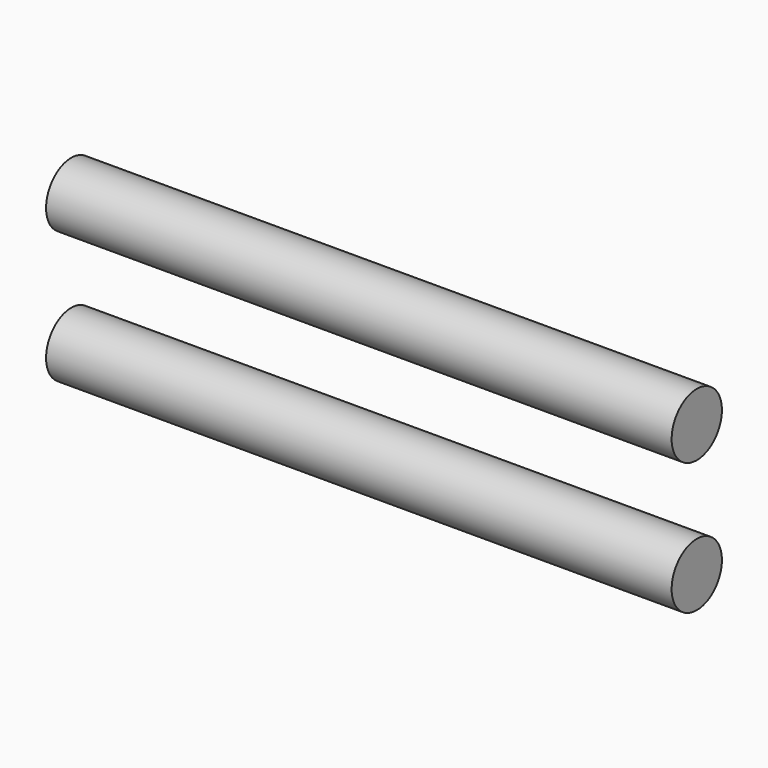
from build123d import *

# Parameters (mm, degrees)
CYLINDER028_R     = 5
CYLINDER028_DEPTH = 99.5
CYLINDER027_R     = 5
CYLINDER027_DEPTH = 99.5


with BuildPart() as cylinder028:
    # Cylinder028 → Cylinder028 (new body)
    with BuildSketch(Plane(origin=(0, 0, 142.5), x_dir=(0, 0, -1), z_dir=(1, 0, 0))):
        Circle(CYLINDER028_R)
    extrude(amount=CYLINDER028_DEPTH)


with BuildPart() as nitrogenpipes10mm002:
    # Cylinder027 → Cylinder027 (new body)
    with BuildSketch(Plane(origin=(0, 0, 121.5), x_dir=(0, 0, -1), z_dir=(1, 0, 0))):
        Circle(CYLINDER027_R)
    extrude(amount=CYLINDER027_DEPTH)

    # Fusion011: union Cylinder028
    add(cylinder028.part)


solid = nitrogenpipes10mm002.part
